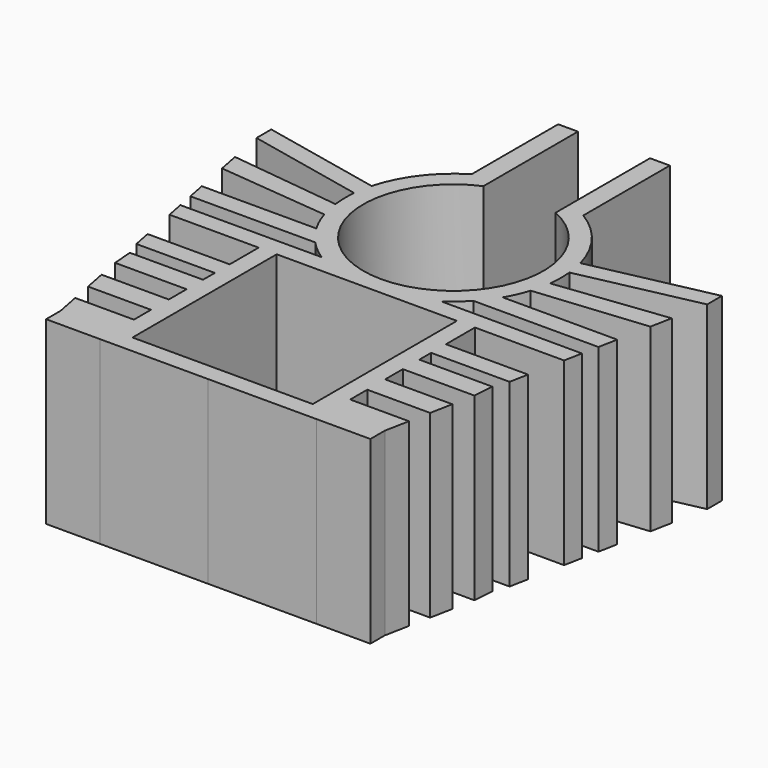
from build123d import *

# Parameters (mm, degrees)
F1_DEPTH = 10


with BuildPart() as f1:
    # F0 (on Top) → F1 (new body)
    with BuildSketch(Plane.XY):
        with BuildLine():
            ThreePointArc((2, 4.582576), (4.894532, -1.021548), (0, -5))
            Line((0, -5), (0, -6.00455))
            Line((0, -6.00455), (5, -6.00455))
            Line((5, -6.00455), (5, -16.00455))
            Line((5, -16.00455), (0, -16.00455))
            Line((0, -16.00455), (0, -17.00455))
            Line((0, -17.00455), (6, -17.002946))
            Line((6, -17.002946), (8.996743, -17.002144))
            Line((8.996743, -17.002144), (8.996987, -16.00455))
            Line((8.996987, -16.00455), (9.259669, -14.657077))
            Line((9.259669, -14.657077), (6, -14.657077))
            Line((6, -14.657077), (6, -13.472727))
            Line((6, -13.472727), (9.490384, -13.473582))
            Line((9.490384, -13.473582), (9.731471, -12.236885))
            Line((9.731471, -12.236885), (6, -12.236885))
            Line((6, -12.236885), (6, -11.00455))
            Line((6, -11.00455), (9.971708, -11.00455))
            Line((9.971708, -11.00455), (10.053972, -9.866621))
            Line((10.053972, -9.866621), (6, -9.863548))
            Line((6, -9.863548), (6, -9.04429))
            Line((6, -9.04429), (10.353642, -9.045355))
            Line((10.353642, -9.045355), (10.554617, -8.01442))
            Line((10.554617, -8.01442), (6, -8.01442))
            Line((6, -8.01442), (6, -6.00455))
            Line((6, -6.00455), (10.946429, -6.00455))
            Line((10.946429, -6.00455), (11.140614, -5.008447))
            Line((11.140614, -5.008447), (6, -5.00455))
            Line((6, -5.00455), (3.316625, -5))
            ThreePointArc((3.316625, -5), (3.879995, -4.57664), (4.389841, -4.090146))
            ThreePointArc((4.389841, -4.090146), (4.809454, -3.587359), (5.171773, -3.041836))
            ThreePointArc((5.171773, -3.041836), (5.483753, -2.434842), (5.724784, -1.796345))
            ThreePointArc((5.724784, -1.796345), (5.863661, -1.271801), (5.954582, -0.736856))
            ThreePointArc((5.954582, -0.736856), (5.999496, -0.077783), (5.971684, 0.582233))
            ThreePointArc((5.971684, 0.582233), (5.902156, 1.079145), (5.791354, 1.56851))
            ThreePointArc((5.791354, 1.56851), (4.789612, 3.61381), (3.097802, 5.138446))
            Line((3.097802, 5.138446), (3.097802, 11.138446))
            Line((3.097802, 11.138446), (2, 11.138446))
            Line((2, 11.138446), (2, 4.582576))
        make_face()
        with BuildLine():
            Line((12.501639, 2.997855), (5.791354, 1.56851))
            ThreePointArc((5.791354, 1.56851), (5.902156, 1.079145), (5.971684, 0.582233))
            Line((5.971684, 0.582233), (12.501639, 1.973166))
            Line((12.501639, 1.973166), (12.501639, 2.997855))
        make_face()
        with BuildLine():
            Line((12.116982, 0), (5.954582, -0.736856))
            ThreePointArc((5.954582, -0.736856), (5.863661, -1.271801), (5.724784, -1.796345))
            Line((5.724784, -1.796345), (11.884799, -1.19102))
            Line((11.884799, -1.19102), (12.116982, 0))
        make_face()
        with BuildLine():
            Line((11.523993, -3.041836), (5.171773, -3.041836))
            ThreePointArc((5.171773, -3.041836), (4.809454, -3.587359), (4.389841, -4.090146))
            Line((4.389841, -4.090146), (11.319631, -4.090146))
            Line((11.319631, -4.090146), (11.523993, -3.041836))
        make_face()
        with BuildLine():
            Line((0, -6.00455), (0, -5))
            ThreePointArc((0, -5), (-4.894532, -1.021548), (-2, 4.582576))
            Line((-2, 4.582576), (-2, 11.138446))
            Line((-2, 11.138446), (-3.097802, 11.138446))
            Line((-3.097802, 11.138446), (-3.097802, 5.138446))
            ThreePointArc((-3.097802, 5.138446), (-4.789612, 3.61381), (-5.791354, 1.56851))
            ThreePointArc((-5.791354, 1.56851), (-5.902156, 1.079145), (-5.971684, 0.582233))
            ThreePointArc((-5.971684, 0.582233), (-5.999496, -0.077783), (-5.954582, -0.736856))
            ThreePointArc((-5.954582, -0.736856), (-5.863661, -1.271801), (-5.724784, -1.796345))
            ThreePointArc((-5.724784, -1.796345), (-5.483753, -2.434842), (-5.171773, -3.041836))
            ThreePointArc((-5.171773, -3.041836), (-4.809454, -3.587359), (-4.389841, -4.090146))
            ThreePointArc((-4.389841, -4.090146), (-3.879995, -4.57664), (-3.316625, -5))
            Line((-3.316625, -5), (-6, -5.00455))
            Line((-6, -5.00455), (-11.140614, -5.008447))
            Line((-11.140614, -5.008447), (-10.946429, -6.00455))
            Line((-10.946429, -6.00455), (-6, -6.00455))
            Line((-6, -6.00455), (-6, -8.01442))
            Line((-6, -8.01442), (-10.554617, -8.01442))
            Line((-10.554617, -8.01442), (-10.353642, -9.045355))
            Line((-10.353642, -9.045355), (-6, -9.04429))
            Line((-6, -9.04429), (-6, -9.863548))
            Line((-6, -9.863548), (-10.053972, -9.866621))
            Line((-10.053972, -9.866621), (-9.971708, -11.00455))
            Line((-9.971708, -11.00455), (-6, -11.00455))
            Line((-6, -11.00455), (-6, -12.236885))
            Line((-6, -12.236885), (-9.731471, -12.236885))
            Line((-9.731471, -12.236885), (-9.490384, -13.473582))
            Line((-9.490384, -13.473582), (-6, -13.472727))
            Line((-6, -13.472727), (-6, -14.657077))
            Line((-6, -14.657077), (-9.259669, -14.657077))
            Line((-9.259669, -14.657077), (-8.996987, -16.00455))
            Line((-8.996987, -16.00455), (-8.996743, -17.002144))
            Line((-8.996743, -17.002144), (-6, -17.002946))
            Line((-6, -17.002946), (0, -17.00455))
            Line((0, -17.00455), (0, -16.00455))
            Line((0, -16.00455), (-5, -16.00455))
            Line((-5, -16.00455), (-5, -6.00455))
            Line((-5, -6.00455), (0, -6.00455))
        make_face()
        with BuildLine():
            ThreePointArc((-5.971684, 0.582233), (-5.902156, 1.079145), (-5.791354, 1.56851))
            Line((-5.791354, 1.56851), (-12.501639, 2.997855))
            Line((-12.501639, 2.997855), (-12.501639, 1.973166))
            Line((-12.501639, 1.973166), (-5.971684, 0.582233))
        make_face()
        with BuildLine():
            ThreePointArc((-5.724784, -1.796345), (-5.863661, -1.271801), (-5.954582, -0.736856))
            Line((-5.954582, -0.736856), (-12.116982, 0))
            Line((-12.116982, 0), (-11.884799, -1.19102))
            Line((-11.884799, -1.19102), (-5.724784, -1.796345))
        make_face()
        with BuildLine():
            ThreePointArc((-4.389841, -4.090146), (-4.809454, -3.587359), (-5.171773, -3.041836))
            Line((-5.171773, -3.041836), (-11.523993, -3.041836))
            Line((-11.523993, -3.041836), (-11.319631, -4.090146))
            Line((-11.319631, -4.090146), (-4.389841, -4.090146))
        make_face()
    extrude(amount=F1_DEPTH)


solid = f1.part
